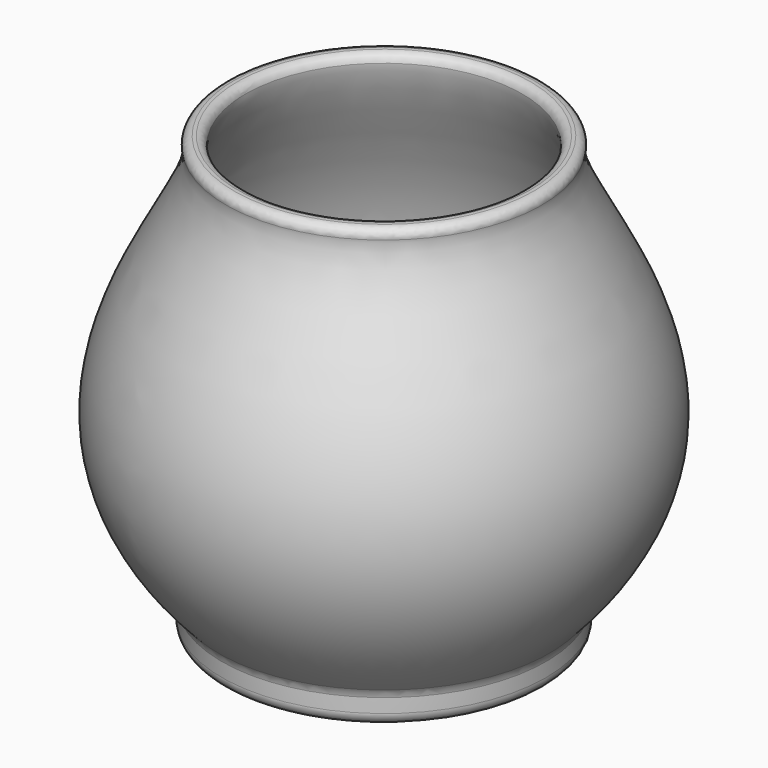
from build123d import *

# Parameters (mm, degrees)
F2_R = 7.62
F3_R = 5.08


with BuildPart() as f1:
    # F0 (on Front) → F1 (revolve)
    with BuildSketch(Plane.XZ):
        with BuildLine():
            add(Edge.make_bspline(
                [(-87.524325, -120.701633), (-194.300137, 0), (-76.2, 99.883822), (-87.524325, 133.298367)],
                knots=[0, 0, 0, 0, 254, 254, 254, 254], degree=3))
            Line((-87.524325, 133.298367), (-101.6, 133.298367))
            add(Edge.make_bspline(
                [(-101.6, -120.701633), (-220.176493, 0), (-76.2, 99.883822), (-101.6, 133.298367)],
                knots=[0, 0, 0, 0, 254, 254, 254, 254], degree=3))
            Line((-101.6, -120.701633), (-101.6, -140.187383))
            Line((-101.6, -140.187383), (0, -140.187383))
            Line((0, -140.187383), (0, -120.701633))
            Line((0, -120.701633), (-87.524325, -120.701633))
        make_face()
    revolve(axis=Axis((0, 0, 6.298367), (0, 0, -1)))

    # F2
    f2_edges = [f1.edges().sort_by_distance(p)[0] for p in [
        (101.6, 0, -140.187383),
        (101.6, 0, -120.701633),
    ]]
    fillet(f2_edges, radius=F2_R)

    # F3
    f3_edges = [f1.edges().sort_by_distance(p)[0] for p in [
        (101.6, 0, 133.298367),
        (87.524325, 0, 133.298367),
    ]]
    fillet(f3_edges, radius=F3_R)


solid = f1.part
